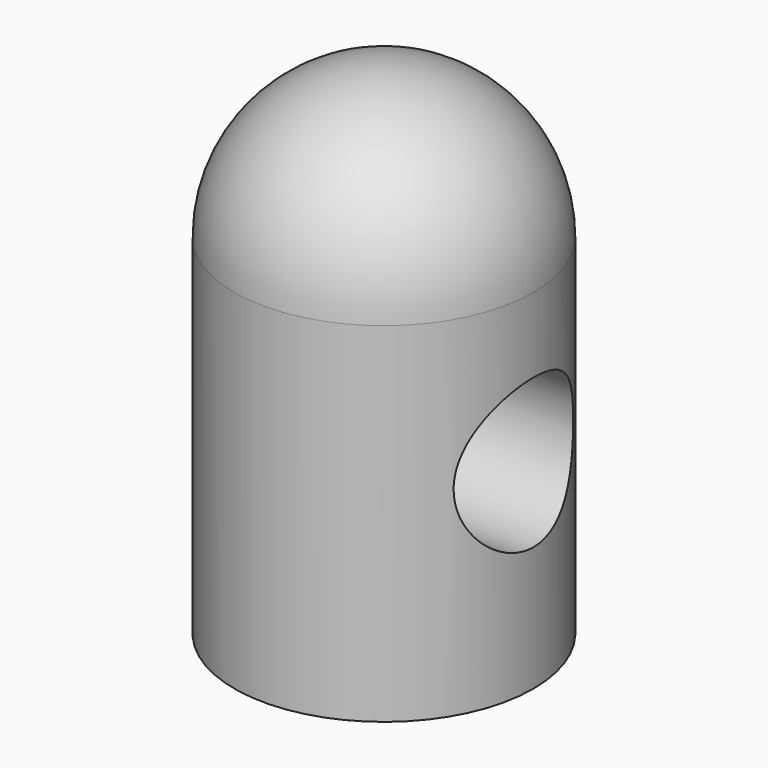
from build123d import *

# Parameters (mm, degrees)
F0_R     = 1.5
F1_DEPTH = 5
F2_R     = 1.5
F3_R     = 0.75
F4_DEPTH = 1.5


with BuildPart() as f1:
    # F0 (on Top) → F1 (new body)
    with BuildSketch(Plane.XY):
        Circle(F0_R)
    extrude(amount=F1_DEPTH)

    # F2
    f2_edges = [f1.edges().sort_by_distance(p)[0] for p in [
        (-1.5, 0, 5),
    ]]
    fillet(f2_edges, radius=F2_R)

    # F3 (on Right) → F4 (cut, symmetric)
    with BuildSketch(Plane.YZ):
        with Locations((0, 2)):
            Circle(F3_R)
    extrude(amount=F4_DEPTH, both=True, mode=Mode.SUBTRACT)


solid = f1.part
